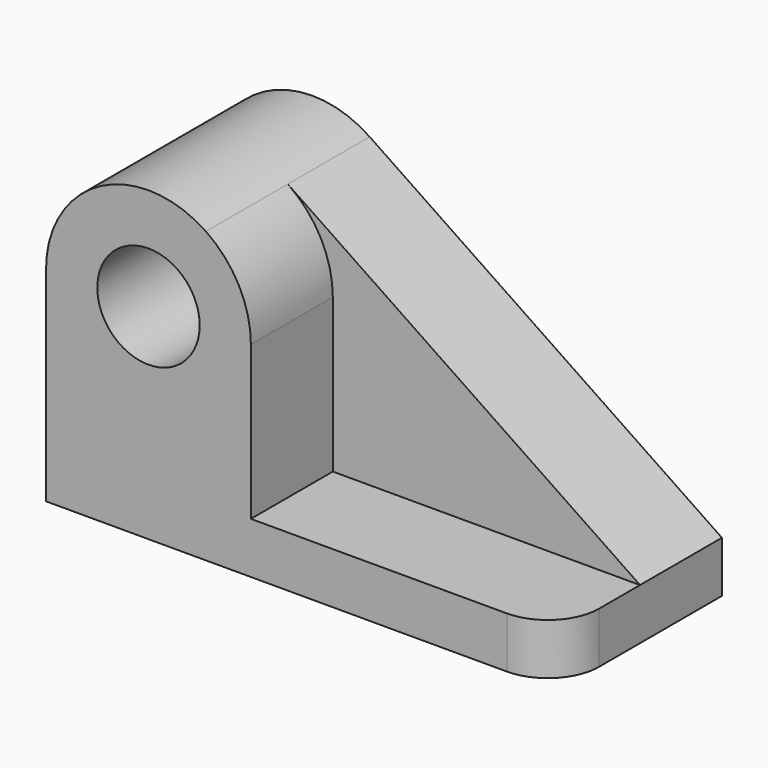
from build123d import *

# Parameters (mm, degrees)
F0_R     = 12.7
F1_DEPTH = 25.4
F2_R     = 12.7
F3_DEPTH = 25.4
F4_R     = 12.7


with BuildPart() as f1:
    # F0 (on Front) → F1 (new body)
    with BuildSketch(Plane.XZ):
        with BuildLine():
            Line((54.355999, 12.7), (-33.006128, 71.834328))
            ThreePointArc((-33.006128, 71.834328), (-59.150261, 73.236599), (-72.644001, 50.8))
            Line((-72.644001, 50.8), (-72.644001, 0))
            Line((-72.644001, 0), (54.355999, 0))
            Line((54.355999, 0), (54.355999, 12.7))
        make_face()
        with Locations((-47.244001, 50.8)):
            Circle(F0_R, mode=Mode.SUBTRACT)
    extrude(amount=F1_DEPTH)

    # F2 (on face) → F3 (join)
    with BuildSketch(Plane.XZ.offset(25.4)):
        with BuildLine():
            Line((54.355999, 0), (54.355999, 12.7))
            Line((54.355999, 12.7), (-21.844001, 12.7))
            Line((-21.844001, 12.7), (-21.844001, 50.8))
            ThreePointArc((-21.844001, 50.8), (-24.807402, 62.706259), (-33.006128, 71.834328))
            ThreePointArc((-33.006128, 71.834328), (-59.150261, 73.236599), (-72.644001, 50.8))
            Line((-72.644001, 50.8), (-72.644001, 12.7))
            Line((-72.644001, 12.7), (-72.644001, 0))
            Line((-72.644001, 0), (54.355999, 0))
        make_face()
        with Locations((-47.244001, 50.8)):
            Circle(F2_R, mode=Mode.SUBTRACT)
    extrude(amount=F3_DEPTH)

    # F4
    f4_edges = [f1.edges().sort_by_distance(p)[0] for p in [
        (54.355999, -50.8, 6.35),
    ]]
    fillet(f4_edges, radius=F4_R)


solid = f1.part
